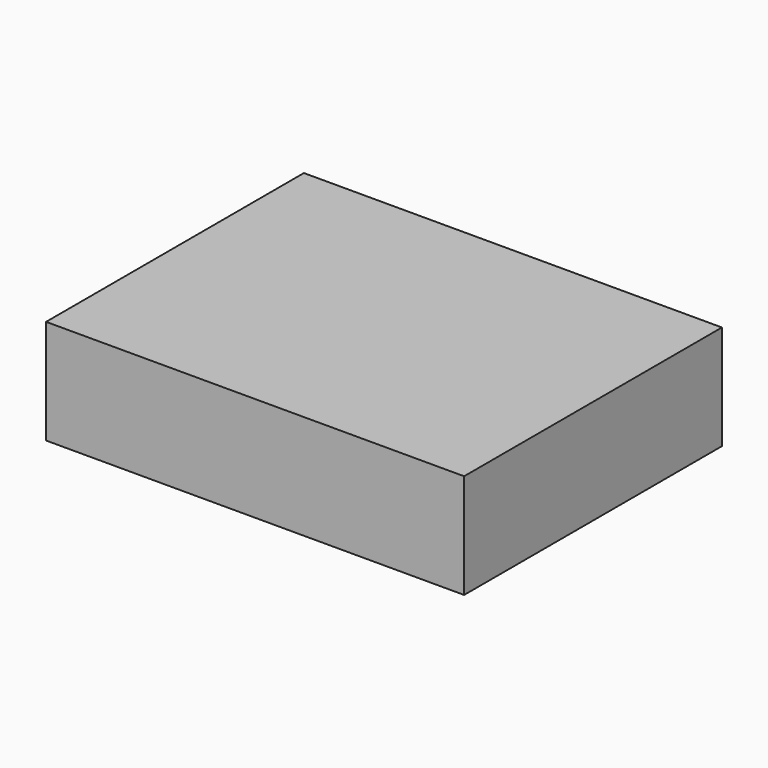
from build123d import *

# Parameters (mm, degrees)
EXTRUDE011_DEPTH           = 20
EXTRUDE011_PLACEMENT_ANGLE = 300
BOX141_W                   = 48
BOX141_H                   = 12
BOX141_DEPTH               = 37
CUT029_PLACEMENT_ANGLE     = 90


with BuildPart() as extrude011:
    # Sketch022 (on Box) → Extrude011 (new body)
    with BuildSketch(Plane.XZ):
        with BuildLine():
            ThreePointArc((7.277422, 6.106482), (0, 9.5), (-7.277422, 6.106482))
            Line((-7.277422, 6.106482), (-5.1708, 4.338816))
            ThreePointArc((5.1708, 4.338816), (0, 6.75), (-5.1708, 4.338816))
            Line((5.1708, 4.338816), (7.277422, 6.106482))
        make_face()
        with BuildLine():
            ThreePointArc((-8.92708, 3.249192), (-8.227241, -4.75), (-1.649658, -9.355674))
            Line((-1.172125, -6.647452), (-1.649658, -9.355674))
            ThreePointArc((-6.342925, 2.308636), (-5.845671, -3.375), (-1.172125, -6.647452))
            Line((-8.92708, 3.249192), (-6.342925, 2.308636))
        make_face()
        with BuildLine():
            ThreePointArc((1.649658, -9.355674), (8.227241, -4.75), (8.92708, 3.249192))
            Line((6.342925, 2.308636), (8.92708, 3.249192))
            ThreePointArc((1.172125, -6.647452), (5.845671, -3.375), (6.342925, 2.308636))
            Line((1.172125, -6.647452), (1.649658, -9.355674))
        make_face()
    extrude(amount=EXTRUDE011_DEPTH)


with BuildPart() as extrude011_1:
    # Extrude011 placement: moved
    add(extrude011.part.moved(Location((12.4, 2.6, 25.087942))).rotate(Axis((12.4, 2.6, 25.087942), (0, -1, 0)), EXTRUDE011_PLACEMENT_ANGLE))


with BuildPart() as cut029:
    # Box141 → Box141 (new body)
    with BuildSketch(Plane.XY):
        with Locations((24, 6)):
            Rectangle(BOX141_W, BOX141_H)
    extrude(amount=BOX141_DEPTH)

    # Cut029: cut Extrude011
    add(extrude011_1.part, mode=Mode.SUBTRACT)


with BuildPart() as cut029_1:
    # Cut029 placement: moved
    add(cut029.part.moved(Location((-26, 37, 0))).rotate(Axis((-26, 37, 0), (1, 0, 0)), CUT029_PLACEMENT_ANGLE))


solid = cut029_1.part
